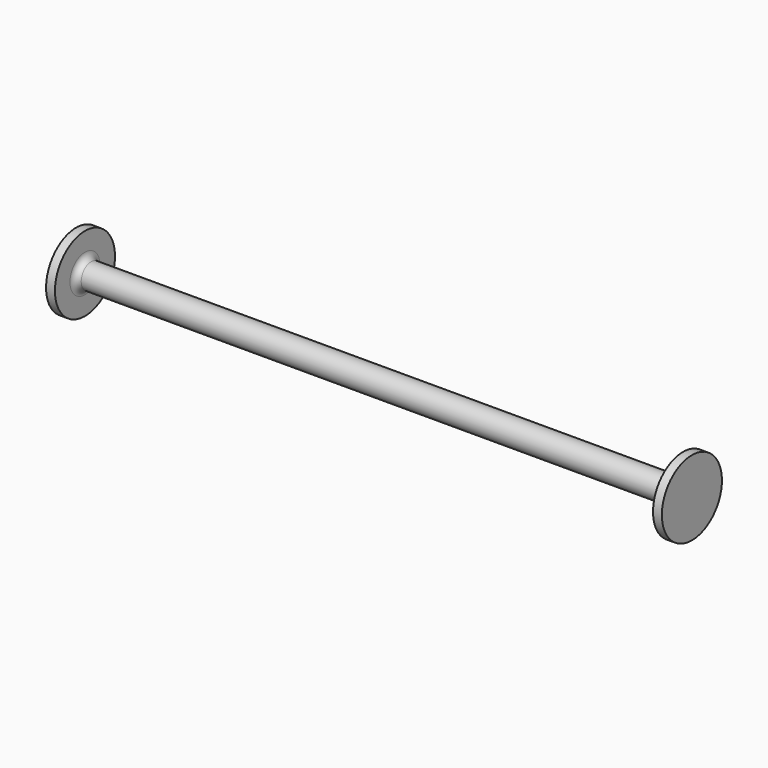
from build123d import *


with BuildPart() as f1:
    # F0 (on Front) → F1 (revolve)
    with BuildSketch(Plane.XZ):
        with BuildLine():
            Line((0, -12.7), (0, 0))
            Line((0, 0), (-312.539067, 0))
            Line((-312.539067, 0), (-312.539067, -12.7))
            Line((-312.539067, -12.7), (-312.539067, -38.1))
            Line((-312.539067, -38.1), (-303.53117, -38.1))
            Line((-303.53117, -38.1), (-303.53117, -19.05))
            ThreePointArc((-303.53117, -19.05), (-301.671298, -14.559872), (-297.18117, -12.7))
            Line((-297.18117, -12.7), (0, -12.7))
        make_face()
        with BuildLine():
            Line((312.539067, 0), (0, 0))
            Line((0, 0), (0, -12.7))
            Line((0, -12.7), (297.18117, -12.7))
            ThreePointArc((297.18117, -12.7), (301.671298, -14.559872), (303.53117, -19.05))
            Line((303.53117, -19.05), (303.53117, -38.1))
            Line((303.53117, -38.1), (312.539067, -38.1))
            Line((312.539067, -38.1), (312.539067, -12.7))
            Line((312.539067, -12.7), (312.539067, 0))
        make_face()
    revolve(axis=Axis((-312.241406, 0, 0), (-1, 0, 0)))


solid = f1.part
